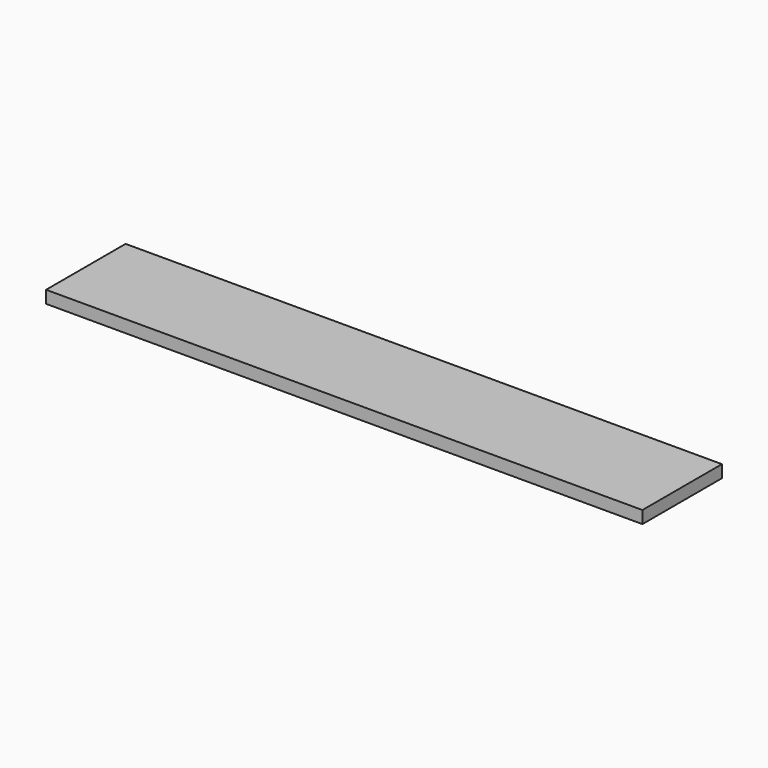
from build123d import *

# Parameters (mm, degrees)
SKETCH001_W = 480
SKETCH001_H = 80
PAD_DEPTH   = 10


with BuildPart() as part:
    # Sketch001 → Pad (new body)
    with BuildSketch(Plane.XY):
        Rectangle(SKETCH001_W, SKETCH001_H)
    extrude(amount=PAD_DEPTH)


solid = part.part
